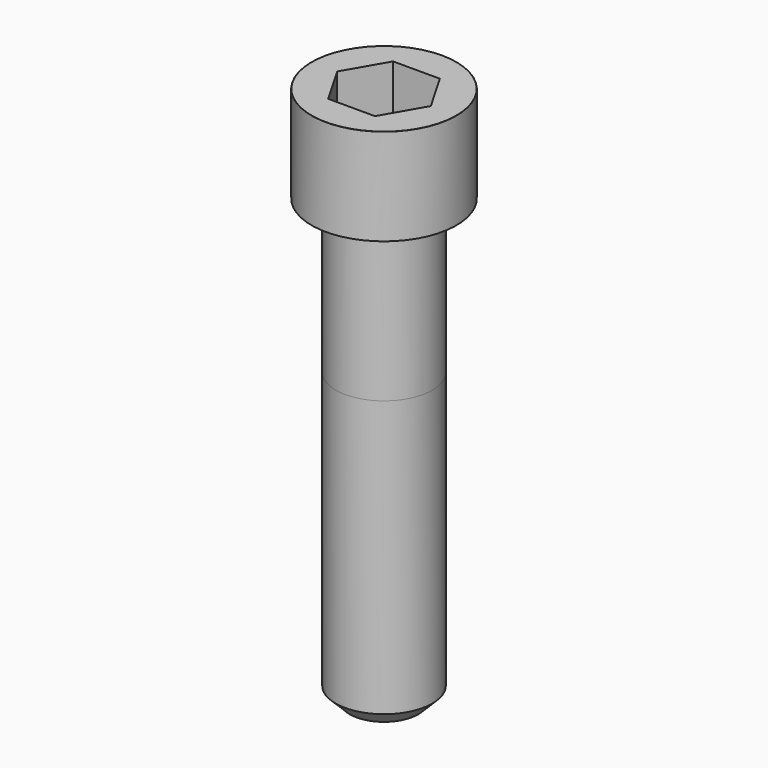
from build123d import *

# Parameters (mm, degrees)
POCKET_DEPTH = 10.07


with BuildPart() as part:
    # Sketch → Revolve (revolve)
    with BuildSketch(Plane.YZ):
        with BuildLine():
            Line((5.999, 0), (9, 0))
            Line((9, 0), (9, 11.97229))
            ThreePointArc((9, 11.97229), (8.991884, 11.991884), (8.97229, 12))
            Line((8.97229, 12), (0, 12))
            Line((0, -55), (0, 12))
            Line((4.25, -55), (0, -55))
            Line((6, -53.25), (4.25, -55))
            Line((6, -19), (6, -53.25))
            Line((5.999, 0), (6, -19))
        make_face()
    revolve(axis=Axis((0, 0, 0), (0, 0, 1)))

    # Sketch001 → Pocket (cut)
    with BuildSketch(Plane.XY.offset(12)):
        Polygon((5.813917, 0), (2.906959, 5.035), (-2.906959, 5.035), (-5.813917, 0), (-2.906959, -5.035), (2.906959, -5.035), align=None)
    extrude(amount=-POCKET_DEPTH, mode=Mode.SUBTRACT)


solid = part.part
